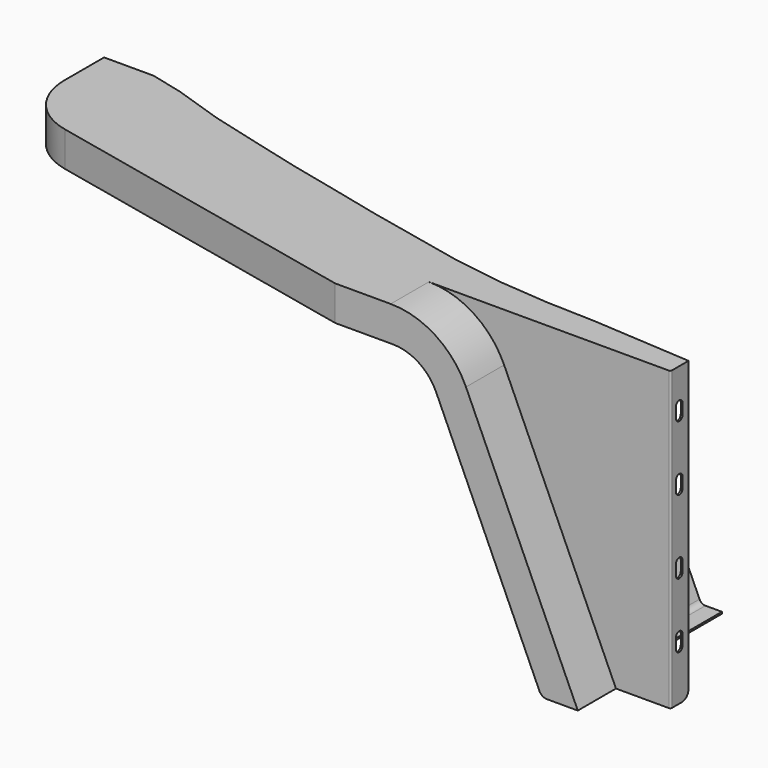
from build123d import *

# Parameters (mm, degrees)
F1_DEPTH  = 2.794
F3_DEPTH  = 50.8
F5_DEPTH  = 25.4
F7_DEPTH  = 50.8
F9_DEPTH  = 2.794
F11_DEPTH = 2.794
F12_R     = 12.7
F14_DEPTH = 73.406
F16_DEPTH = 2.794
F19_DEPTH = 70.612
F20_DEPTH = 2.794
F22_DEPTH = 2.794
F24_DEPTH = 228.6
F26_DEPTH = 25.4
F27_R     = 2.54


with BuildPart() as f1:
    # F0 (on Top) → F1 (new body)
    with BuildSketch(Plane.XY):
        with BuildLine():
            Line((-965.2, 177.8), (-1041.4, 177.8))
            Line((-1041.4, 177.8), (-1041.4, 101.6))
            ThreePointArc((-1041.4, 101.6), (-1018.9456069551, 37.8933841763), (-961.5076200844, 2.3460870783))
            Line((-961.5076200844, 2.3460870783), (-457.2, -107.95))
            Line((-457.2, -107.95), (-457.2, -31.75))
            Line((-457.2, -31.75), (0, -31.75))
            Line((0, -31.75), (0, 0))
            Line((0, 0), (-76.2, 5.08))
            Line((-76.2, 5.08), (-152.4, 10.16))
            Line((-152.4, 10.16), (-228.6, 12.7))
            Line((-228.6, 12.7), (-304.8, 19.05))
            Line((-304.8, 19.05), (-381, 30.48))
            Line((-381, 30.48), (-457.2, 46.99))
            Line((-457.2, 46.99), (-533.4, 63.5))
            Line((-533.4, 63.5), (-609.6, 81.7329064012))
            Line((-609.6, 81.7329064012), (-685.8, 99.568))
            Line((-685.8, 99.568), (-762, 119.38))
            Line((-762, 119.38), (-838.2, 139.7))
            Line((-838.2, 139.7), (-914.4, 165.1))
            Line((-914.4, 165.1), (-965.2, 177.8))
        make_face()
    extrude(amount=-F1_DEPTH)

    # F2 (on face) → F3 (join)
    with BuildSketch(Plane(origin=(-1041.4, 0, 0), x_dir=(0, -1, 0), z_dir=(-1, 0, 0))):
        with BuildLine():
            Line((-175.006, -2.794), (-177.8, -2.794))
            Line((-177.8, -2.794), (-177.8, -53.3289355663))
            ThreePointArc((-177.8, -53.3289355663), (-177.8267889826, -53.5884088138), (-177.9060257735, -53.8369355663))
            Line((-177.9060257735, -53.8369355663), (-254, -228.1901339778))
            Line((-254, -228.1901339778), (-251.4392567017, -229.3077339778))
            Line((-251.4392567017, -229.3077339778), (-175.1120257735, -54.4200773204))
            ThreePointArc((-175.1120257735, -54.4200773204), (-175.0327889826, -54.1715505679), (-175.006, -53.9120773204))
            Line((-175.006, -53.9120773204), (-175.006, -2.794))
        make_face()
    extrude(amount=-F3_DEPTH)

    # F4 (on face) → F5 (cut)
    with BuildSketch(Plane(origin=(0, 129.7041150564, 56.6075166851), x_dir=(-1, 0, 0), z_dir=(0, 0.916515139, 0.4))):
        with BuildLine():
            Line((1022.3420024451, -148.4961138868), (1022.3422634072, -149.1280729728))
            ThreePointArc((1022.3422634072, -149.1280729728), (1022.3499994586, -148.8120901814), (1022.3420024451, -148.4961138868))
        make_face()
        with BuildLine():
            Line((1022.3499994586, -167.8620901814), (1022.3422634072, -149.1280729728))
            Line((1022.3422634072, -149.1280729728), (1022.3420024451, -148.4961138868))
            ThreePointArc((1022.3420024451, -148.4961138868), (1016.1138654081, -142.4657333334), (1009.6735000791, -148.2689113418))
            Line((1009.6735000791, -148.2689113418), (1009.6735000791, -149.3605133763))
            Line((1009.6735000791, -149.3605133763), (1009.6735000791, -167.3189113418))
            Line((1009.6735000791, -167.3189113418), (1009.6735000791, -168.4105133763))
            ThreePointArc((1009.6735000791, -168.4105133763), (1016.2744632166, -174.2087780856), (1022.3499994586, -167.8620901814))
        make_face()
        with BuildLine():
            Line((1009.6735000791, -149.3605133763), (1009.6735000791, -148.2689113418))
            ThreePointArc((1009.6735000791, -148.2689113418), (1009.65, -148.8147123591), (1009.6735000791, -149.3605133763))
        make_face()
        with BuildLine():
            ThreePointArc((1009.6735000791, -167.3189113418), (1009.65, -167.8647123591), (1009.6735000791, -168.4105133763))
            Line((1009.6735000791, -168.4105133763), (1009.6735000791, -167.3189113418))
        make_face()
        with BuildLine():
            Line((1022.35, -231.3647123591), (1022.35, -211.9987344133))
            ThreePointArc((1022.35, -211.9987344133), (1016, -205.6487344133), (1009.65, -211.9987344133))
            Line((1009.65, -211.9987344133), (1009.65, -231.3647123591))
            ThreePointArc((1009.65, -231.3647123591), (1016, -237.7147123591), (1022.35, -231.3647123591))
        make_face()
        with BuildLine():
            Line((1022.35, -294.8647123591), (1022.35, -275.4987344133))
            ThreePointArc((1022.35, -275.4987344133), (1015.8419112498, -269.1507025965), (1009.6578715127, -275.8148139146))
            Line((1009.6578715127, -275.8148139146), (1009.6500005422, -294.862088327))
            ThreePointArc((1009.6500005422, -294.862088327), (1009.6500001355, -294.863400343), (1009.65, -294.8647123591))
            ThreePointArc((1009.65, -294.8647123591), (1016, -301.2147123591), (1022.35, -294.8647123591))
        make_face()
    extrude(amount=-F5_DEPTH, mode=Mode.SUBTRACT)

    # F6 (on face) → F7 (join)
    with BuildSketch(Plane(origin=(0, 0, -2.794), x_dir=(1, 0, 0), z_dir=(0, 0, -1))):
        with BuildLine():
            Line((-1041.4, -101.6), (-1041.4, -175.006))
            Line((-1041.4, -175.006), (-1038.606, -175.006))
            Line((-1038.606, -175.006), (-1038.606, -101.6))
            ThreePointArc((-1038.606, -101.6), (-1016.3281446314, -39.1014502946), (-959.5405846349, -4.7860807824))
            Line((-959.5405846349, -4.7860807824), (-457.2, 105.0798))
            Line((-457.2, 105.0798), (-457.2, 107.95))
            Line((-457.2, 107.95), (-961.5076200844, -2.3460870783))
            ThreePointArc((-961.5076200844, -2.3460870783), (-1018.9456069551, -37.8933841763), (-1041.4, -101.6))
        make_face()
    extrude(amount=F7_DEPTH)

    # F8 (on face) → F9 (join)
    with BuildSketch(Plane.XZ.offset(31.75)):
        with BuildLine():
            Line((0, -457.2), (0, 0))
            Line((0, 0), (-406.4, 0))
            Line((-406.4, 0), (-457.2, 0))
            Line((-457.2, 0), (-457.2, -2.794))
            Line((-457.2, -2.794), (-508, -2.794))
            Line((-508, -2.794), (-457.2, -53.594))
            Line((-457.2, -53.594), (-368.7859632857, -53.594))
            ThreePointArc((-368.7859632857, -53.594), (-328.9286236164, -65.3572120156), (-301.8454532768, -96.876770496))
            Line((-301.8454532768, -96.876770496), (-254, -203.2))
            Line((-254, -203.2), (-139.7, -457.2))
            Line((-139.7, -457.2), (0, -457.2))
        make_face()
    extrude(amount=F9_DEPTH)

    # F10 (on face) → F11 (join)
    with BuildSketch(Plane(origin=(-1041.4, 0, 0), x_dir=(0, -1, 0), z_dir=(-1, 0, 0))):
        with BuildLine():
            Line((-195.2287815157, -100.5133552833), (-101.6, -53.594))
            Line((-101.6, -53.594), (-175.006, -53.594))
            Line((-175.006, -53.594), (-175.006, -53.9120773204))
            ThreePointArc((-175.006, -53.9120773204), (-175.0327889826, -54.1715505679), (-175.1120257735, -54.4200773204))
            Line((-175.1120257735, -54.4200773204), (-195.2287815157, -100.5133552833))
        make_face()
    extrude(amount=-F11_DEPTH)

    # F12
    f12_edges = [f1.edges().sort_by_distance(p)[0] for p in [
        (-139.7, -33.147, -457.2),
    ]]
    fillet(f12_edges, radius=F12_R)

    # F13 (on face) → F14 (join)
    with BuildSketch(Plane.XZ.offset(34.544)):
        with BuildLine():
            Line((-371.8498234799, 0), (-457.2, 0))
            Line((-457.2, 0), (-457.2, -2.794))
            Line((-457.2, -2.794), (-371.8498234799, -2.794))
            ThreePointArc((-371.8498234799, -2.794), (-304.4095497834, -22.6978431683), (-258.5837010082, -76.0302448877))
            Line((-258.5837010082, -76.0302448877), (-87.0573112076, -457.2))
            Line((-87.0573112076, -457.2), (-83.9934510134, -457.2))
            Line((-83.9934510134, -457.2), (-256.0357923227, -74.8836859792))
            ThreePointArc((-256.0357923227, -74.8836859792), (-302.8924884119, -20.3515778817), (-371.8498234799, 0))
        make_face()
    extrude(amount=F14_DEPTH)

    # F15 (on face) → F16 (join)
    with BuildSketch(Plane.XZ.offset(107.95)):
        with BuildLine():
            Line((-371.8498234799, -2.794), (-457.2, -2.794))
            Line((-457.2, -2.794), (-457.2, -53.594))
            Line((-457.2, -53.594), (-368.7859632857, -53.594))
            ThreePointArc((-368.7859632857, -53.594), (-328.9286236164, -65.3572120156), (-301.8454532768, -96.876770496))
            Line((-301.8454532768, -96.876770496), (-143.0697658691, -449.7116314021))
            ThreePointArc((-143.0697658691, -449.7116314021), (-138.3840962601, -455.1648422118), (-131.4883627533, -457.2))
            Line((-131.4883627533, -457.2), (-87.0573112076, -457.2))
            Line((-87.0573112076, -457.2), (-258.5837010082, -76.0302448877))
            ThreePointArc((-258.5837010082, -76.0302448877), (-304.4095497834, -22.6978431683), (-371.8498234799, -2.794))
        make_face()
    extrude(amount=-F16_DEPTH)

    # F18 (on face) → F19 (join, through all)
    with BuildSketch(Plane.XZ.offset(34.544)):
        with BuildLine():
            Line((-131.4883627533, -457.2), (-87.0573112076, -457.2))
            Line((-87.0573112076, -457.2), (-88.3146112076, -454.406))
            Line((-88.3146112076, -454.406), (-131.4883627533, -454.406))
            ThreePointArc((-131.4883627533, -454.406), (-136.8670348886, -452.8185769252), (-140.5218571836, -448.5650724936))
            Line((-140.5218571836, -448.5650724936), (-299.2975445913, -95.7302115875))
            ThreePointArc((-299.2975445913, -95.7302115875), (-327.4115622449, -63.010946729), (-368.7859632857, -50.8))
            Line((-368.7859632857, -50.8), (-419.1, -50.8))
            Line((-419.1, -50.8), (-419.1, -53.594))
            Line((-419.1, -53.594), (-368.7859632857, -53.594))
            ThreePointArc((-368.7859632857, -53.594), (-328.9286236164, -65.3572120156), (-301.8454532768, -96.876770496))
            Line((-301.8454532768, -96.876770496), (-143.0697658691, -449.7116314021))
            ThreePointArc((-143.0697658691, -449.7116314021), (-138.3840962601, -455.1648422118), (-131.4883627533, -457.2))
        make_face()
    extrude(amount=F19_DEPTH)

    # F17 (on face) → F20 (join)
    with BuildSketch(Plane(origin=(0, 0, -53.594), x_dir=(1, 0, 0), z_dir=(0, 0, -1))):
        with BuildLine():
            ThreePointArc((-959.5405846349, -4.7860807824), (-1016.3281446314, -39.1014502946), (-1038.606, -101.6))
            Line((-1038.606, -101.6), (-1038.606, -175.006))
            Line((-1038.606, -175.006), (-990.6, -175.006))
            Line((-990.6, -175.006), (-990.6, -101.6))
            ThreePointArc((-990.6, -101.6), (-978.6978071313, -68.9258420097), (-948.5684803002, -51.5624765478))
            Line((-948.5684803002, -51.5624765478), (-457.2, 34.544))
            Line((-457.2, 34.544), (-419.1, 34.544))
            Line((-419.1, 34.544), (-419.1, 105.156))
            Line((-419.1, 105.156), (-457.2, 105.156))
            Line((-457.2, 105.156), (-457.2, 105.0798))
            Line((-457.2, 105.0798), (-959.5405846349, -4.7860807824))
        make_face()
    extrude(amount=-F20_DEPTH)

    # F21 (on face) → F22 (join)
    with BuildSketch(Plane.YZ):
        with BuildLine():
            Line((0, -2.794), (-31.75, -2.794))
            Line((-31.75, -2.794), (-31.75, -457.2))
            Line((-31.75, -457.2), (-12.7, -457.2))
            ThreePointArc((-12.7, -457.2), (-3.7197438789, -453.4802561211), (0, -444.5))
            Line((0, -444.5), (0, -2.794))
        make_face()
        with BuildLine():
            ThreePointArc((-11.43, -381), (-17.78, -387.35), (-24.13, -381))
            Line((-24.13, -381), (-24.13, -365.125))
            ThreePointArc((-24.13, -365.125), (-17.78, -358.775), (-11.43, -365.125))
            Line((-11.43, -365.125), (-11.43, -381))
        make_face(mode=Mode.SUBTRACT)
        with BuildLine():
            ThreePointArc((-24.13, -265.43), (-17.78, -259.08), (-11.43, -265.43))
            Line((-11.43, -265.43), (-11.43, -281.305))
            ThreePointArc((-11.43, -281.305), (-17.78, -287.655), (-24.13, -281.305))
            Line((-24.13, -281.305), (-24.13, -265.43))
        make_face(mode=Mode.SUBTRACT)
        with BuildLine():
            ThreePointArc((-24.13, -152.0825), (-17.78, -145.7325), (-11.43, -152.0825))
            Line((-11.43, -152.0825), (-11.43, -167.9575))
            ThreePointArc((-11.43, -167.9575), (-17.78, -174.3075), (-24.13, -167.9575))
            Line((-24.13, -167.9575), (-24.13, -152.0825))
        make_face(mode=Mode.SUBTRACT)
        with BuildLine():
            ThreePointArc((-24.13, -52.3875), (-17.78, -46.0375), (-11.43, -52.3875))
            Line((-11.43, -52.3875), (-11.43, -68.2625))
            ThreePointArc((-11.43, -68.2625), (-17.78, -74.6125), (-24.13, -68.2625))
            Line((-24.13, -68.2625), (-24.13, -52.3875))
        make_face(mode=Mode.SUBTRACT)
    extrude(amount=-F22_DEPTH)

    # F23 (on face) → F24 (join)
    with BuildSketch(Plane(origin=(0, -31.75, 0), x_dir=(-1, 0, 0), z_dir=(0, 1, 0))):
        with BuildLine():
            Line((106.0883627533, -457.2), (131.4883627533, -457.2))
            ThreePointArc((131.4883627533, -457.2), (138.3840962601, -455.1648422118), (143.0697658691, -449.7116314021))
            Line((143.0697658691, -449.7116314021), (254.3558908457, -202.4091314541))
            Line((254.3558908457, -202.4091314541), (251.8079821602, -201.2625725456))
            Line((251.8079821602, -201.2625725456), (140.5218571836, -448.5650724936))
            ThreePointArc((140.5218571836, -448.5650724936), (136.8670348886, -452.8185769252), (131.4883627533, -454.406))
            Line((131.4883627533, -454.406), (106.0883627533, -454.406))
            Line((106.0883627533, -454.406), (106.0883627533, -457.2))
        make_face()
    extrude(amount=F24_DEPTH)

    # F25 (on face) → F26 (cut)
    with BuildSketch(Plane(origin=(-287.2681912682, 0, -129.2706860707), x_dir=(0, -1, 0), z_dir=(-0.9119215052, 0, -0.4103646773))):
        with BuildLine():
            Line((-180.975, -105.6025667432), (-161.925, -105.6025667432))
            ThreePointArc((-161.925, -105.6025667432), (-155.575, -99.2525667432), (-161.925, -92.9025667432))
            Line((-161.925, -92.9025667432), (-180.975, -92.9025667432))
            ThreePointArc((-180.975, -92.9025667432), (-187.325, -99.2525667432), (-180.975, -105.6025667432))
        make_face()
        with BuildLine():
            Line((-161.925, -258.0025667432), (-180.975, -258.0025667432))
            ThreePointArc((-180.975, -258.0025667432), (-187.325, -264.3525667432), (-180.975, -270.7025667432))
            Line((-180.975, -270.7025667432), (-161.925, -270.7025667432))
            ThreePointArc((-161.925, -270.7025667432), (-155.575, -264.3525667432), (-161.925, -258.0025667432))
        make_face()
        with BuildLine():
            Line((19.05, -92.9025667432), (0, -92.9025667432))
            ThreePointArc((0, -92.9025667432), (-6.35, -99.2525667432), (0, -105.6025667432))
            Line((0, -105.6025667432), (19.05, -105.6025667432))
            ThreePointArc((19.05, -105.6025667432), (25.4, -99.2525667432), (19.05, -92.9025667432))
        make_face()
        with BuildLine():
            Line((15.875, -258.0025667432), (0, -258.0025667432))
            ThreePointArc((0, -258.0025667432), (-6.35, -264.3525667432), (0, -270.7025667432))
            Line((0, -270.7025667432), (15.875, -270.7025667432))
            ThreePointArc((15.875, -270.7025667432), (22.225, -264.3525667432), (15.875, -258.0025667432))
        make_face()
    extrude(amount=-F26_DEPTH, mode=Mode.SUBTRACT)

    # F27
    f27_edges = [f1.edges().sort_by_distance(p)[0] for p in [
        (0, -34.544, -228.6),
    ]]
    fillet(f27_edges, radius=F27_R)


solid = f1.part
